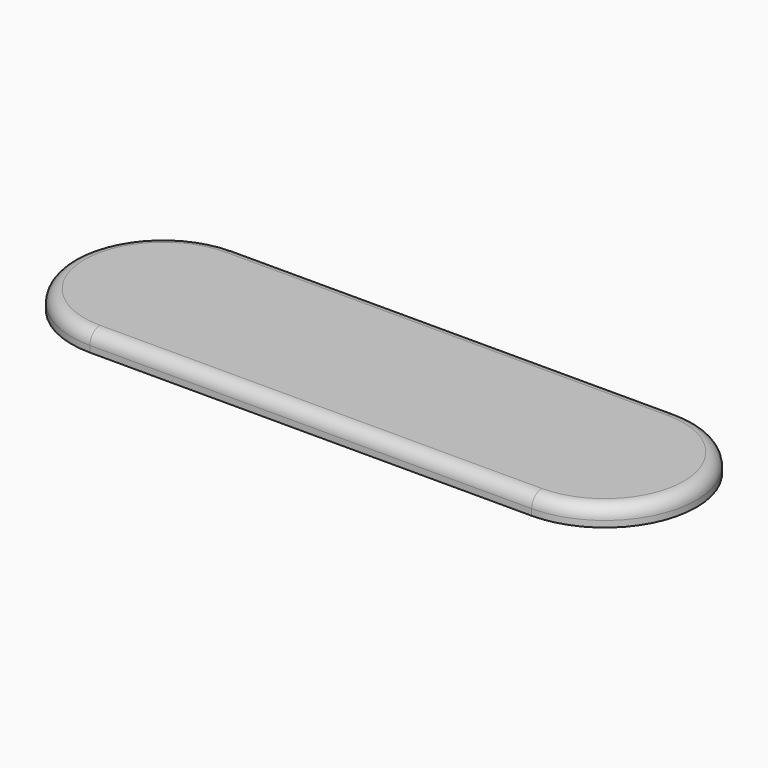
from build123d import *

# Parameters (mm, degrees)
F0_W     = 35
F0_H     = 14.5
F1_DEPTH = 1.5
F2_R     = 1


with BuildPart() as f1:
    # F0 (on Top) → F1 (new body)
    with BuildSketch(Plane.XY):
        with Locations((-7.526532, -3.581936)):
            Rectangle(F0_W, F0_H)
        with BuildLine():
            Line((-25.026532, -10.831936), (-25.026532, 3.668064))
            ThreePointArc((-25.026532, 3.668064), (-32.276532, -3.581936), (-25.026532, -10.831936))
        make_face()
        with BuildLine():
            ThreePointArc((9.973468, -10.831936), (17.223468, -3.581936), (9.973468, 3.668064))
            Line((9.973468, 3.668064), (9.973468, -10.831936))
        make_face()
    extrude(amount=F1_DEPTH)

    # F2
    f2_edges = [f1.edges().sort_by_distance(p)[0] for p in [
        (-7.526532, 3.668064, 1.5),
        (-32.276532, -3.581936, 1.5),
        (-7.526532, -10.831936, 1.5),
        (17.223468, -3.581936, 1.5),
    ]]
    fillet(f2_edges, radius=F2_R)


solid = f1.part
